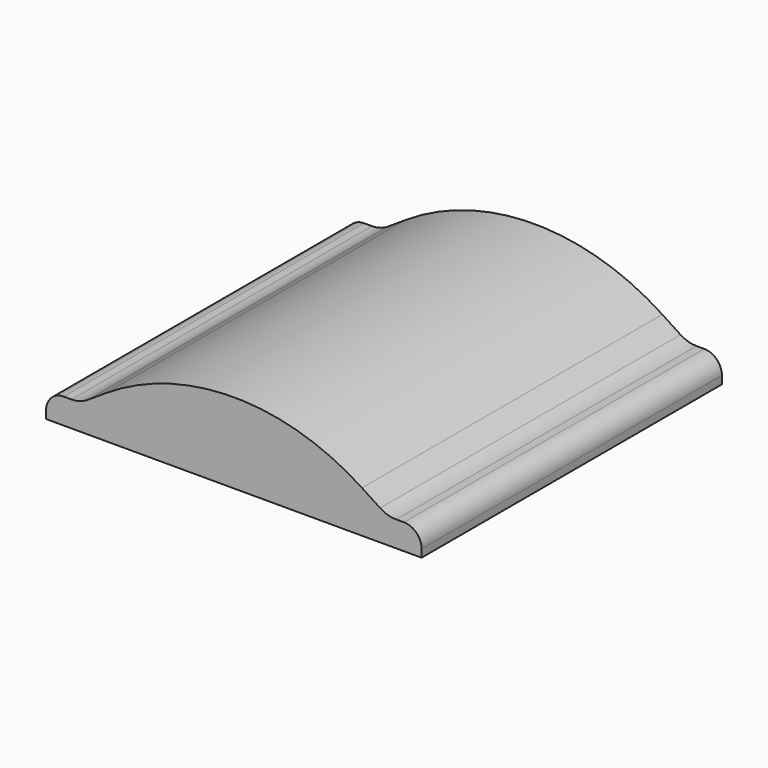
from build123d import *

# Parameters (mm, degrees)
F1_DEPTH      = 50.8
F1_DEPTH_BACK = 50.8


with BuildPart() as f1:
    # F0 (on Front) → F1 (new body, two sides)
    with BuildSketch(Plane.XZ) as f1_sk:
        with BuildLine():
            Line((-50.554242, 2.141397), (-50.554242, 0))
            Line((-50.554242, 0), (51.045758, 0))
            Line((51.045758, 0), (51.045758, 2.141397))
            ThreePointArc((51.045758, 2.141397), (49.650854, 5.508993), (46.283258, 6.903897))
            Line((46.283258, 6.903897), (44.177186, 6.903897))
            ThreePointArc((44.177186, 6.903897), (41.912757, 7.233752), (39.836532, 8.195901))
            Line((39.836532, 8.195901), (34.918846, 11.407997))
            ThreePointArc((34.918846, 11.407997), (0.245758, 21.728501), (-34.42733, 11.407997))
            Line((-34.42733, 11.407997), (-39.345016, 8.195901))
            ThreePointArc((-39.345016, 8.195901), (-41.421241, 7.233752), (-43.68567, 6.903897))
            Line((-43.68567, 6.903897), (-45.791742, 6.903897))
            ThreePointArc((-45.791742, 6.903897), (-49.159338, 5.508993), (-50.554242, 2.141397))
        make_face()
    extrude(amount=F1_DEPTH)
    extrude(f1_sk.sketch, amount=-F1_DEPTH_BACK)


solid = f1.part
